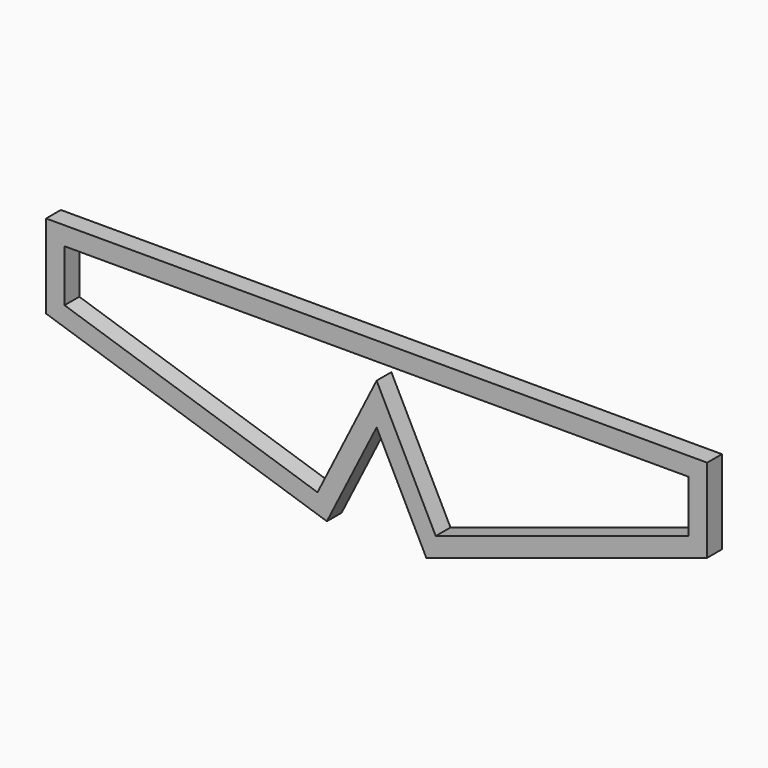
from build123d import *

# Parameters (mm, degrees)
F1_DEPTH = 150
F3_DEPTH = 163
F4_DEPTH = 145


with BuildPart() as f1:
    # F0 (on Front) → F1 (new body)
    with BuildSketch(Plane.XZ):
        Polygon((90.0722037068, 47.3391901924), (0.5319875367, 47.3391901924), (-89.0082286333, 47.3391901924), (-89.0082286333, 24.6384392554), (-12.9456477409, -0.1503442564), (0.5319875367, 26.651770349), (14.0096228144, -0.1503442564), (90.0722037068, 24.6384392554), align=None)
    extrude(amount=F1_DEPTH)

    # F2 (on Front) → F3 (cut)
    with BuildSketch(Plane.XZ):
        Polygon((-15.4821047033, 5.9351143447), (0.5319875367, 37.7813193113), (16.5460797768, 5.9351143447), (85.0722036495, 28.2677676632), (85.0722036495, 42.3391901351), (-84.008228576, 42.3391901351), (-84.008228576, 28.2677676632), align=None)
    extrude(amount=F3_DEPTH, mode=Mode.SUBTRACT)

    # F4 (cut): a face of the model
    f4_faces = [f1.faces().sort_by_distance(p)[0] for p in [
        (0.5319875367, -150, 29.1828717422),
    ]]
    extrude(f4_faces, amount=-F4_DEPTH, mode=Mode.SUBTRACT)


solid = f1.part
